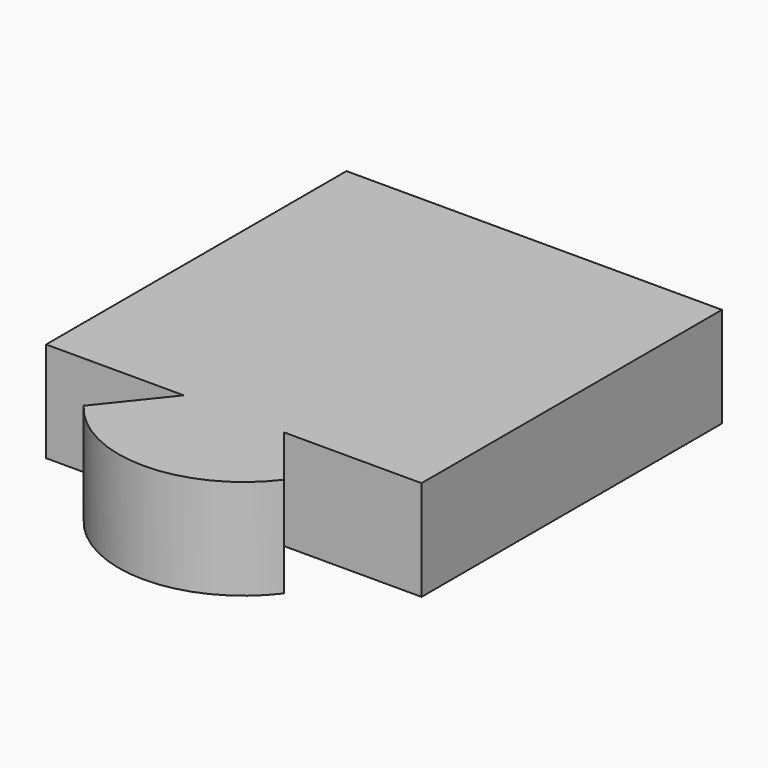
from build123d import *

# Parameters (mm, degrees)
F1_DEPTH = 4


with BuildPart() as f1:
    # F0 (on Top) → F1 (new body)
    with BuildSketch(Plane.XY):
        Polygon((7.5, -7.5), (7.5, 7.5), (-7.5, 7.5), (-7.5, -7.5), (-2, -7.5), (2, -7.5), align=None)
        with BuildLine():
            Line((4, -10), (2, -7.5))
            Line((2, -7.5), (-2, -7.5))
            Line((-2, -7.5), (-4, -10))
            ThreePointArc((-4, -10), (0, -12), (4, -10))
        make_face()
    extrude(amount=F1_DEPTH)


solid = f1.part
